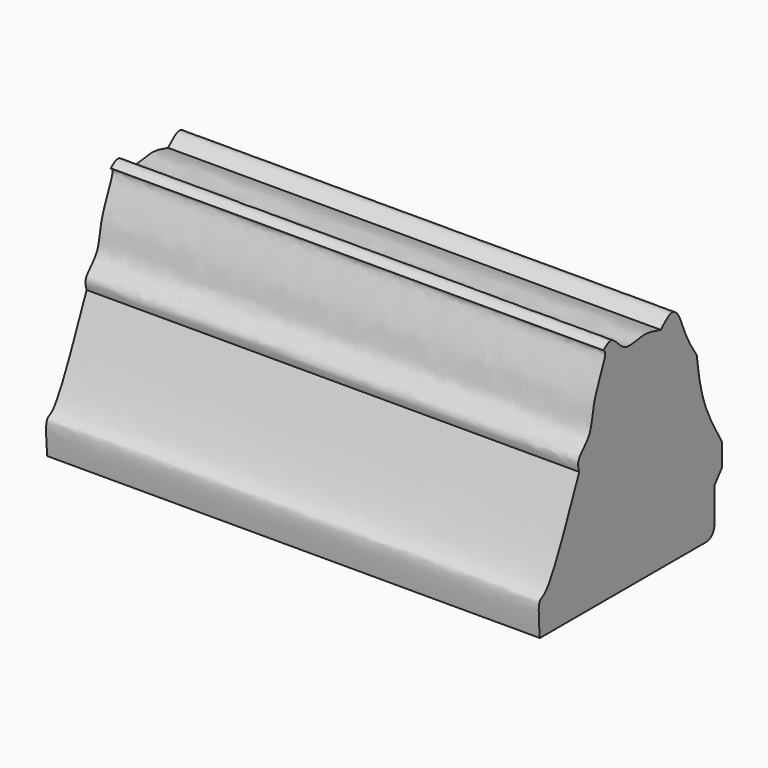
from build123d import *

# Parameters (mm, degrees)
F1_DEPTH = 1428


with BuildPart() as f1:
    # F0 (on Right) → F1 (new body)
    with BuildSketch(Plane.YZ):
        with BuildLine():
            add(Edge.make_bspline(
                [(142.7304893732, 365.8585846424), (93.8143757264, 248.2582298741), (31.7347587017, 99.0111936379), (-9.228661913, 101.1381770165), (-3.7366390944, 40.9503425028), (0, 0)],
                knots=[0, 0, 0, 0, 0.5429066112, 0.6890047469, 1, 1, 1, 1], degree=3))
            Line((0, 0), (602, 0))
            ThreePointArc((602, 0), (623.2132034356, 8.7867965644), (632, 30))
            Line((632, 30), (632, 131.6413879395))
            Line((632, 131.6413879395), (659.571826458, 166.6821688414))
            Line((659.571826458, 166.6821688414), (659.571826458, 232.7370047569))
            add(Edge.make_bspline(
                [(659.571826458, 232.7370047569), (634.7851545645, 274.8380294925), (586.1805669101, 357.3946129618), (574.2468323206, 446.9143827311), (568.3988928795, 490.7821416855)],
                knots=[0, 0, 0, 0, 0.5099656862, 1, 1, 1, 1], degree=3))
            add(Edge.make_bspline(
                [(568.3988928795, 490.7821416855), (554.0213909405, 512.6261712782), (526.1733173198, 554.9363129739), (506.0038104857, 622.8254308652), (475.4396554214, 644.1259121701), (451.5892955231, 621.4125649773), (437.9738867283, 608.4462404251)],
                knots=[0, 0, 0, 0, 0.3032545006, 0.5873797613, 0.7644482829, 1, 1, 1, 1], degree=3))
            add(Edge.make_bspline(
                [(437.9738867283, 608.4462404251), (416.7035414634, 614.9461681328), (374.1521302287, 627.9492996495), (302.9538987018, 600.5640983204), (264.1184938487, 667.8554043552), (240.3018890829, 648.9736484761), (230.000808835, 640.8069729805)],
                knots=[0, 0, 0, 0, 0.2741934905, 0.5485251804, 0.8047295829, 1, 1, 1, 1], degree=3))
            add(Edge.make_bspline(
                [(230.000808835, 640.8069729805), (233.1997508055, 638.4821553097), (245.9447714551, 629.2197649651), (186.9604032188, 525.0089120465), (191.4475476944, 442.5954691232), (132.093725643, 401.8021406725), (139.5610210374, 376.56879365), (142.7304893732, 365.8585846424)],
                knots=[0, 0, 0, 0, 0.095591641, 0.3808501217, 0.6360016753, 0.8455021392, 1, 1, 1, 1], degree=3))
        make_face()
    extrude(amount=F1_DEPTH)


solid = f1.part
